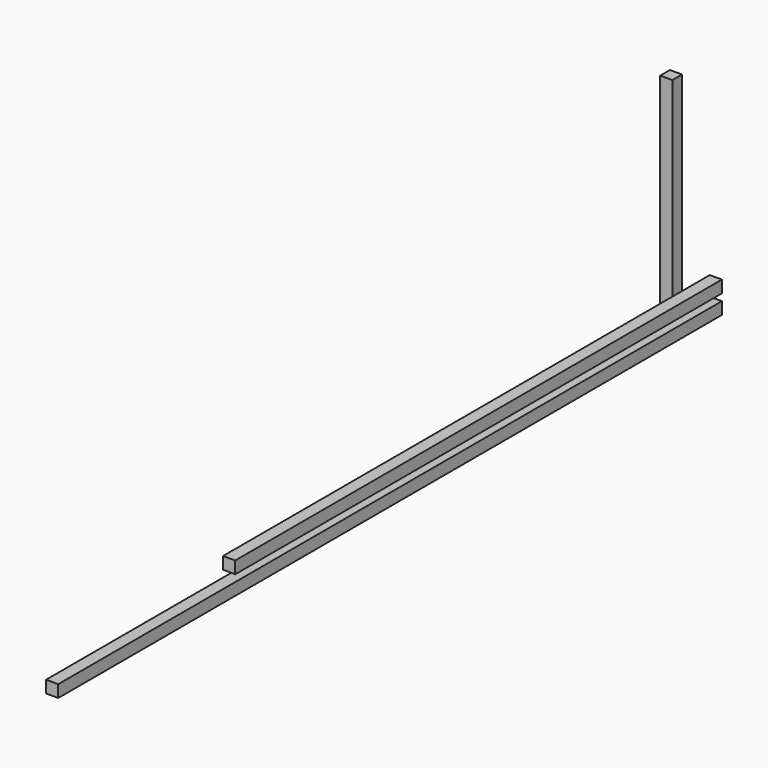
from build123d import *

# Parameters (mm, degrees)
F3_W     = 22
F3_H     = 22
F4_DEPTH = 1500
F5_W     = 22
F5_H     = 22
F6_DEPTH = 366
F7_W     = 22
F7_H     = 22
F8_DEPTH = 1100


with BuildPart() as f4:
    # F3 (on Front) → F4 (new body)
    with BuildSketch(Plane.XZ):
        with Locations((11, 11)):
            Rectangle(F3_W, F3_H)
    extrude(amount=F4_DEPTH)


with BuildPart() as f6:
    # F5 (on Top) → F6 (new body)
    with BuildSketch(Plane.XY):
        with Locations((-53.0493322164, -20.9828059624)):
            Rectangle(F5_W, F5_H)
    extrude(amount=F6_DEPTH)


with BuildPart() as f8:
    # F7 (on Front) → F8 (new body)
    with BuildSketch(Plane.XZ):
        with Locations((11, 45.3460401942)):
            Rectangle(F7_W, F7_H)
    extrude(amount=F8_DEPTH)


solid = Compound([f4.part, f6.part, f8.part])
